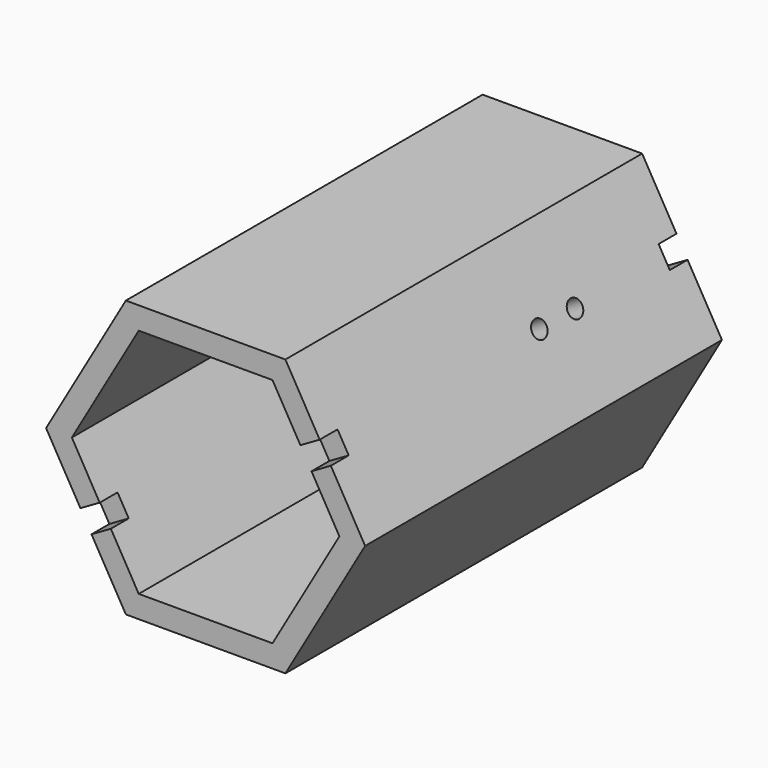
from build123d import *

# Parameters (mm, degrees)
F1_DEPTH  = 114.3
F2_DEPTH  = 12.7
F4_DEPTH  = 6.35
F5_W      = 6.35
F5_H      = 6.35
F6_DEPTH  = 6.35
F7_W      = 6.35
F7_H      = 6.35
F8_DEPTH  = 6.35
F9_R      = 2.5
F10_DEPTH = 6.35
F11_R     = 2.5
F12_DEPTH = 6.35
F13_W     = 6.35
F13_H     = 6.35
F14_DEPTH = 6.35


with BuildPart() as f1:
    # F0 (on Front) → F1 (new body)
    with BuildSketch(Plane.XZ):
        Polygon((45.4323484187, 0), (22.7161742094, 39.3455678842), (-22.7161742094, 39.3455678842), (-45.4323484187, 0), (-22.7161742094, -39.3455678842), (22.7161742094, -39.3455678842), align=None)
        Polygon((38.1, 0), (19.05, -32.9955678842), (-19.05, -32.9955678842), (-38.1, 0), (-19.05, 32.9955678842), (19.05, 32.9955678842), align=None, mode=Mode.SUBTRACT)
    extrude(amount=F1_DEPTH)

    # F0 (on Front) → F2 (join)
    with BuildSketch(Plane.XZ):
        Polygon((45.4323484187, 0), (22.7161742094, 39.3455678842), (-22.7161742094, 39.3455678842), (-45.4323484187, 0), (-22.7161742094, -39.3455678842), (22.7161742094, -39.3455678842), align=None)
        Polygon((38.1, 0), (19.05, -32.9955678842), (-19.05, -32.9955678842), (-38.1, 0), (-19.05, 32.9955678842), (19.05, 32.9955678842), align=None, mode=Mode.SUBTRACT)
    extrude(amount=-F2_DEPTH)

    # F3 (on Front) → F4 (join)
    with BuildSketch(Plane.XZ):
        Polygon((19.05, -32.9955678842), (38.1, 0), (19.05, 32.9955678842), (-19.05, 32.9955678842), (-38.1, 0), (-19.05, -32.9955678842), align=None)
    extrude(amount=F4_DEPTH)

    # F5 (on face) → F6 (cut)
    with BuildSketch(Plane(origin=(34.074261314, 0, 19.6727839421), x_dir=(0, 1, 0), z_dir=(0.8660254038, 0, 0.5))):
        with Locations((-111.125, 0)):
            Rectangle(F5_W, F5_H)
    extrude(amount=-F6_DEPTH, mode=Mode.SUBTRACT)

    # F7 (on face) → F8 (cut)
    with BuildSketch(Plane(origin=(-34.074261314, 0, -19.6727839421), x_dir=(0, -1, 0), z_dir=(-0.8660254038, 0, -0.5))):
        with Locations((111.125, 0)):
            Rectangle(F7_W, F7_H)
    extrude(amount=-F8_DEPTH, mode=Mode.SUBTRACT)

    # F9 (on face) → F10 (cut)
    with BuildSketch(Plane(origin=(-34.074261314, 0, -19.6727839421), x_dir=(0, -1, 0), z_dir=(-0.8660254038, 0, -0.5))):
        with Locations((38.1, 0)):
            Circle(F9_R)
    extrude(amount=-F10_DEPTH, mode=Mode.SUBTRACT)

    # F11 (on face) → F12 (cut)
    with BuildSketch(Plane(origin=(34.074261314, 0, 19.6727839421), x_dir=(0, 1, 0), z_dir=(0.8660254038, 0, 0.5))):
        with Locations((-38.1, 0)):
            Circle(F11_R)
        with Locations((-25.4, 0)):
            Circle(F11_R)
    extrude(amount=-F12_DEPTH, mode=Mode.SUBTRACT)

    # F13 (on face) → F14 (cut)
    with BuildSketch(Plane(origin=(34.074261314, 0, 19.6727839421), x_dir=(0, 1, 0), z_dir=(0.8660254038, 0, 0.5))):
        with Locations((9.525, 0)):
            Rectangle(F13_W, F13_H)
    extrude(amount=-F14_DEPTH, mode=Mode.SUBTRACT)


solid = f1.part
